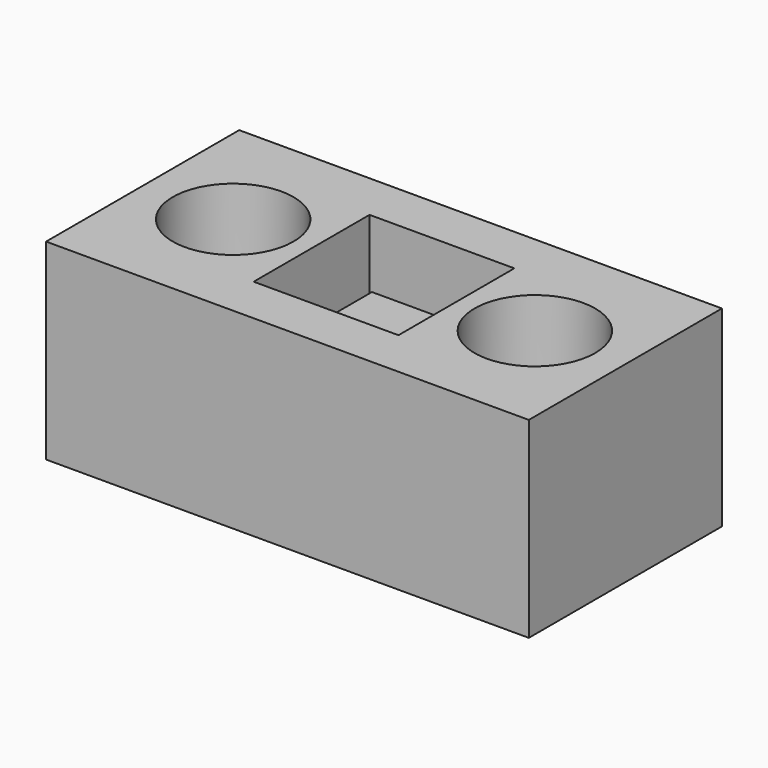
from build123d import *

# Parameters (mm, degrees)
F0_W     = 10
F0_H     = 10
F1_DEPTH = 10
F3_W     = 40
F3_H     = 20
F3_R     = 5
F4_DEPTH = 0.9
F5_W     = 40
F5_H     = 20
F5_R     = 5
F6_DEPTH = 15


with BuildPart() as f1:
    # F0 (on Top) → F1 (new body)
    with BuildSketch(Plane.XY):
        Rectangle(F0_W, F0_H)
    extrude(amount=F1_DEPTH)


with BuildPart() as f4:
    # F3 (on offset) → F4 (new body)
    with BuildSketch(Plane(origin=(0, 0, -1), x_dir=(1, 0, 0), z_dir=(0, 0, -1))):
        Rectangle(F3_W, F3_H)
        with Locations((-12.5, 0)):
            Circle(F3_R, mode=Mode.SUBTRACT)
        with Locations((12.5, 0)):
            Circle(F3_R, mode=Mode.SUBTRACT)
    extrude(amount=-F4_DEPTH)

    # F5 (on face) → F6 (join)
    with BuildSketch(Plane.XY.offset(-0.1)):
        Rectangle(F5_W, F5_H)
        with Locations((-12.5, 0)):
            Circle(F5_R, mode=Mode.SUBTRACT)
        Polygon((0, 6), (6, 6), (6, -6), (0, -6), (-6, -6), (-6, 6), align=None, mode=Mode.SUBTRACT)
        with Locations((12.5, 0)):
            Circle(F5_R, mode=Mode.SUBTRACT)
    extrude(amount=F6_DEPTH)


solid = Compound([f1.part, f4.part])
